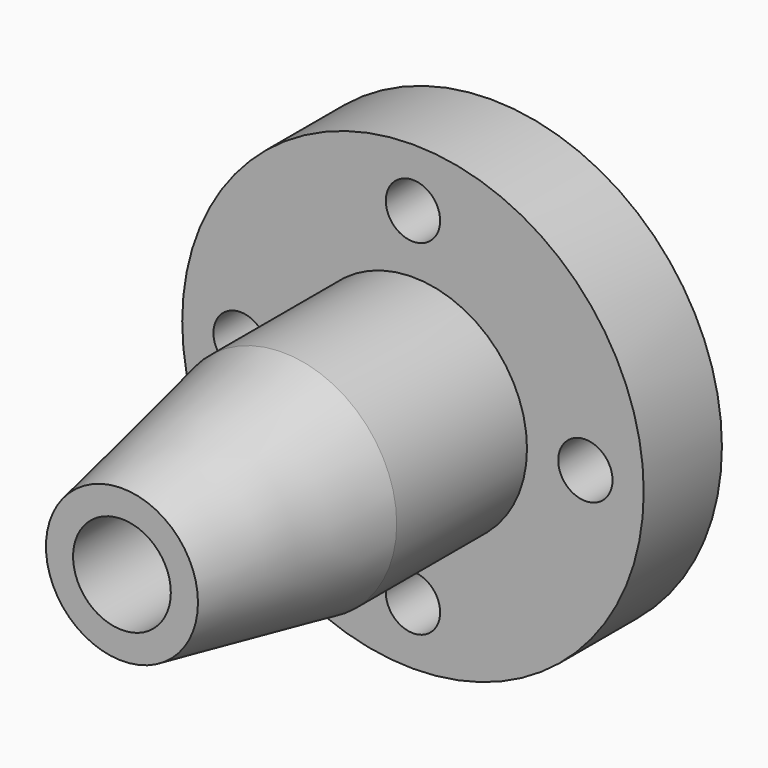
from build123d import *

# Parameters (mm, degrees)
F2_R     = 5
F3_DEPTH = 18.001


with BuildPart() as f1:
    # F0 (on Top) → F1 (revolve)
    with BuildSketch(Plane.XY):
        Polygon((42.5, 43.818755), (9, 43.818755), (9, -41.181245), (14, -41.181245), (21, -4.181245), (21, 25.818755), (42.5, 25.818755), align=None)
    revolve(axis=Axis((0, -8.370262, 0), (0, 1, 0)))

    # F2 (on face) → F3 (cut, through all)
    with BuildSketch(Plane.XZ.offset(-25.818755)):
        with Locations((0, 31.75)):
            Circle(F2_R)
        with Locations((-31.75, 0)):
            Circle(F2_R)
        with Locations((0, -31.75)):
            Circle(F2_R)
        with Locations((31.75, 0)):
            Circle(F2_R)
    extrude(amount=-F3_DEPTH, mode=Mode.SUBTRACT)


solid = f1.part
